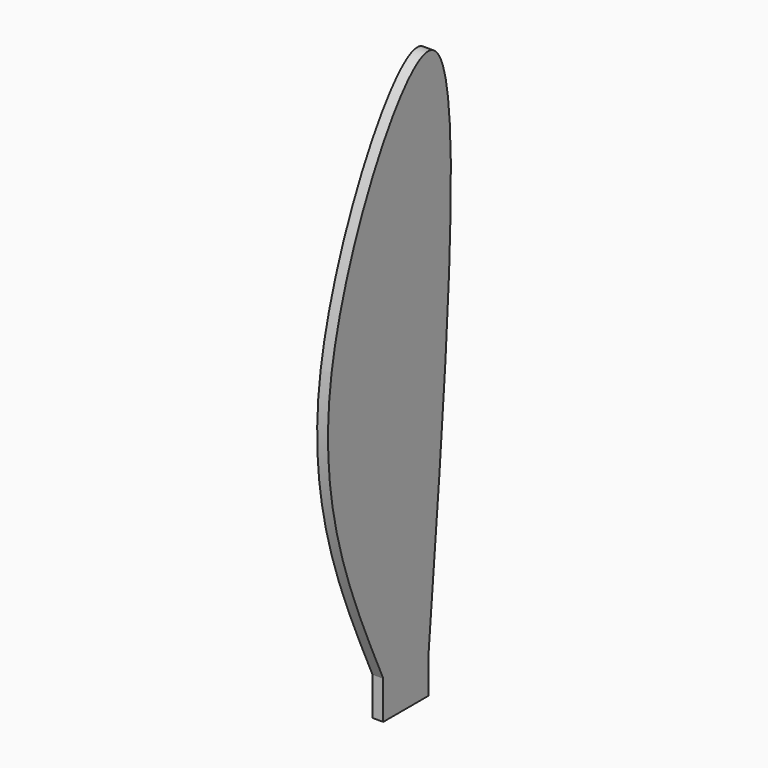
from build123d import *

# Parameters (mm, degrees)
F0_W     = 5.240558181
F0_H     = 3.5409175325
F1_DEPTH = 1


with BuildPart() as f1:
    # F0 (on Right) → F1 (new body)
    with BuildSketch(Plane.YZ):
        with BuildLine():
            Line((-5.240558181, 0), (0, 0))
            add(Edge.make_bspline(
                [(0, 0), (2.2229705536, 24.321876103), (6.0123591647, 65.7821825186), (-16.4966818002, 24.5262800961), (-9.0805585071, 8.3670832654), (-5.240558181, 0)],
                knots=[0, 0, 0, 0, 0.4062898679, 0.6925823627, 1, 1, 1, 1], degree=3))
        make_face()
        with Locations((-2.6202790905, -1.7704587663)):
            Rectangle(F0_W, F0_H)
    extrude(amount=F1_DEPTH)


solid = f1.part
